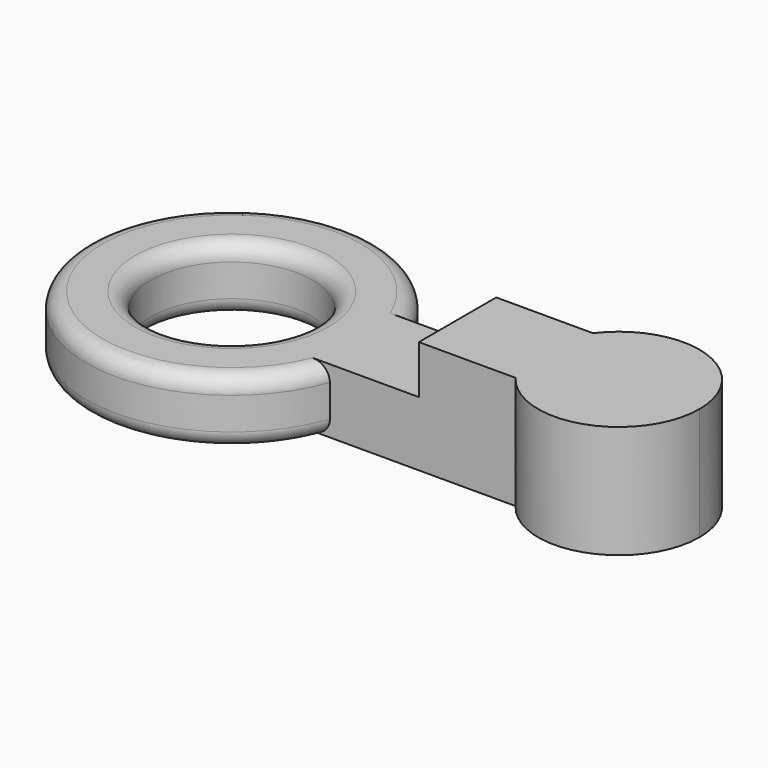
from build123d import *

# Parameters (mm, degrees)
F0_R     = 2.5
F1_DEPTH = 2
F3_DEPTH = 1.5
F4_R     = 0.5


with BuildPart() as f1:
    # F0 (on Top) → F1 (new body)
    with BuildSketch(Plane.XY):
        with BuildLine():
            ThreePointArc((4.242641, -1.5), (4.435194, -0.760959), (4.5, 0))
            ThreePointArc((4.5, 0), (4.435194, 0.760959), (4.242641, 1.5))
            ThreePointArc((4.242641, 1.5), (-4.5, 0), (4.242641, -1.5))
        make_face()
        Circle(F0_R, mode=Mode.SUBTRACT)
        with BuildLine():
            ThreePointArc((4.242641, 1.5), (4.435194, 0.760959), (4.5, 0))
            ThreePointArc((4.5, 0), (4.435194, -0.760959), (4.242641, -1.5))
            Line((4.242641, -1.5), (10, -1.5))
            ThreePointArc((10, -1.5), (9.5, 0), (10, 1.5))
            Line((10, 1.5), (4.242641, 1.5))
        make_face()
        with BuildLine():
            ThreePointArc((14.5, 0), (12.790569, 2.371708), (10, 1.5))
            ThreePointArc((10, 1.5), (9.5, 0), (10, -1.5))
            ThreePointArc((10, -1.5), (12.790569, -2.371708), (14.5, 0))
        make_face()
    extrude(amount=F1_DEPTH)

    # F2 (on face) → F3 (join)
    with BuildSketch(Plane.XY.offset(2)):
        with BuildLine():
            ThreePointArc((10, -1.5), (12.790569, -2.371708), (14.5, 0))
            ThreePointArc((14.5, 0), (12.790569, 2.371708), (10, 1.5))
            ThreePointArc((10, 1.5), (9.5, 0), (10, -1.5))
        make_face()
        with BuildLine():
            ThreePointArc((10, -1.5), (9.5, 0), (10, 1.5))
            Line((10, 1.5), (7, 1.5))
            Line((7, 1.5), (7, -1.5))
            Line((7, -1.5), (10, -1.5))
        make_face()
    extrude(amount=F3_DEPTH)

    # F4
    f4_edges = [f1.edges().sort_by_distance(p)[0] for p in [
        (-2.5, 0, 2),
        (-4.5, 0, 2),
        (-4.5, 0, 0),
        (-2.5, 0, 0),
    ]]
    fillet(f4_edges, radius=F4_R)


solid = f1.part
